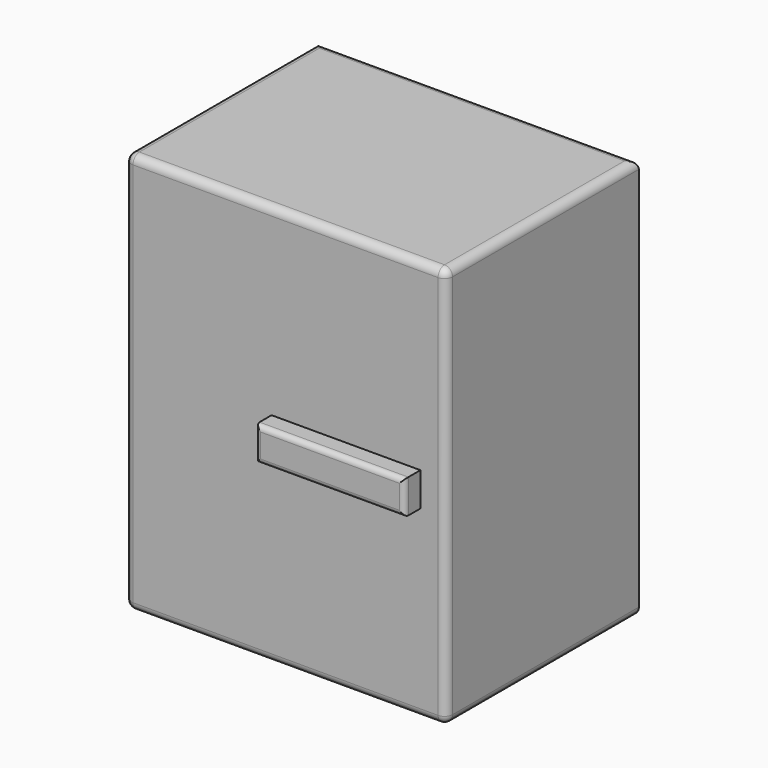
from build123d import *

# Parameters (mm, degrees)
F0_W     = 203.2
F0_H     = 254
F1_DEPTH = 152.4
F2_R     = 5.08
F3_W     = 94.158622
F3_H     = 21.369308
F4_DEPTH = 12.7
F5_R     = 3.175


with BuildPart() as f1:
    # F0 (on Front) → F1 (new body)
    with BuildSketch(Plane.XZ):
        with Locations((-70.276403, 113.863483)):
            Rectangle(F0_W, F0_H)
    extrude(amount=F1_DEPTH)

    # F2
    f2_edges = [f1.edges().sort_by_distance(p)[0] for p in [
        (-70.276403, -152.4, 240.863483),
        (31.323597, -76.2, 240.863483),
        (-171.876403, -76.2, 240.863483),
        (-70.276403, 0, 240.863483),
        (31.323597, -152.4, 113.863483),
        (-171.876403, -152.4, 113.863483),
        (-70.276403, -152.4, -13.136517),
        (31.323597, -76.2, -13.136517),
        (-171.876403, -76.2, -13.136517),
    ]]
    fillet(f2_edges, radius=F2_R)

    # F3 (on face) → F4 (join)
    with BuildSketch(Plane.XZ.offset(152.4)):
        with Locations((-32.059189, 114.187598)):
            Rectangle(F3_W, F3_H)
    extrude(amount=F4_DEPTH)

    # F5
    f5_edges = [f1.edges().sort_by_distance(p)[0] for p in [
        (-32.059189, -165.1, 103.502944),
        (15.020122, -165.1, 114.187598),
        (-32.059189, -165.1, 124.872252),
        (-79.1385, -165.1, 114.187598),
    ]]
    fillet(f5_edges, radius=F5_R)


solid = f1.part
